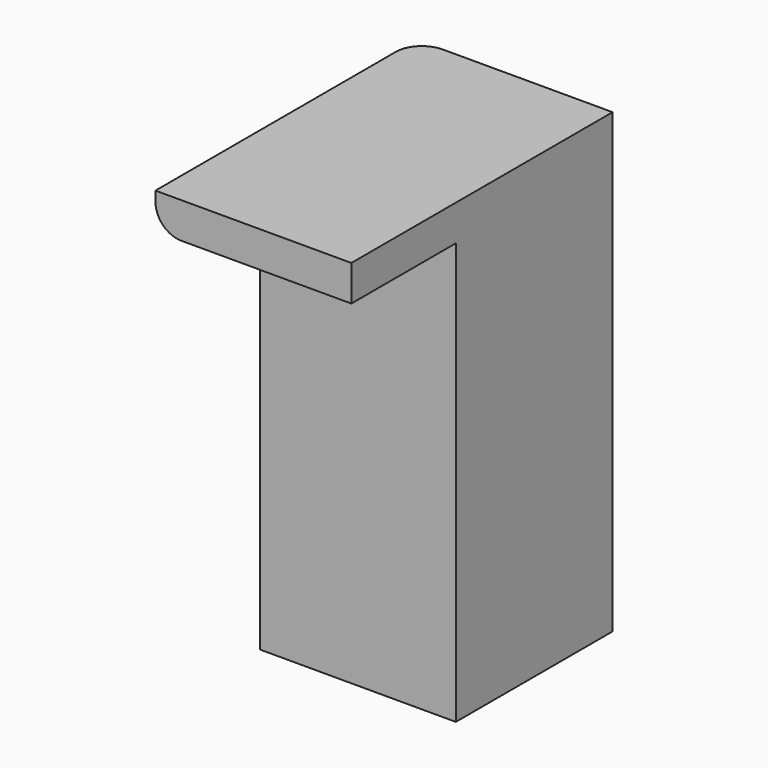
from build123d import *

# Parameters (mm, degrees)
F0_W     = 15
F0_H     = 15
F1_DEPTH = 35
F2_W     = 15
F2_H     = 2.73731336
F3_DEPTH = 10
F4_R     = 2
F5_R     = 2


with BuildPart() as f1:
    # F0 (on Top) → F1 (new body)
    with BuildSketch(Plane.XY):
        with Locations((1.8129660748, -1.8668582881)):
            Rectangle(F0_W, F0_H)
    extrude(amount=F1_DEPTH)

    # F2 (on face) → F3 (join)
    with BuildSketch(Plane.XZ.offset(9.3668582881)):
        with Locations((1.8129660748, 33.63134332)):
            Rectangle(F2_W, F2_H)
    extrude(amount=F3_DEPTH)

    # F4
    f4_edges = [f1.edges().sort_by_distance(p)[0] for p in [
        (-5.687034, 5.633142, 17.5),
    ]]
    fillet(f4_edges, radius=F4_R)

    # F5
    f5_edges = [f1.edges().sort_by_distance(p)[0] for p in [
        (-5.687034, -14.366858, 32.262687),
    ]]
    fillet(f5_edges, radius=F5_R)


solid = f1.part
